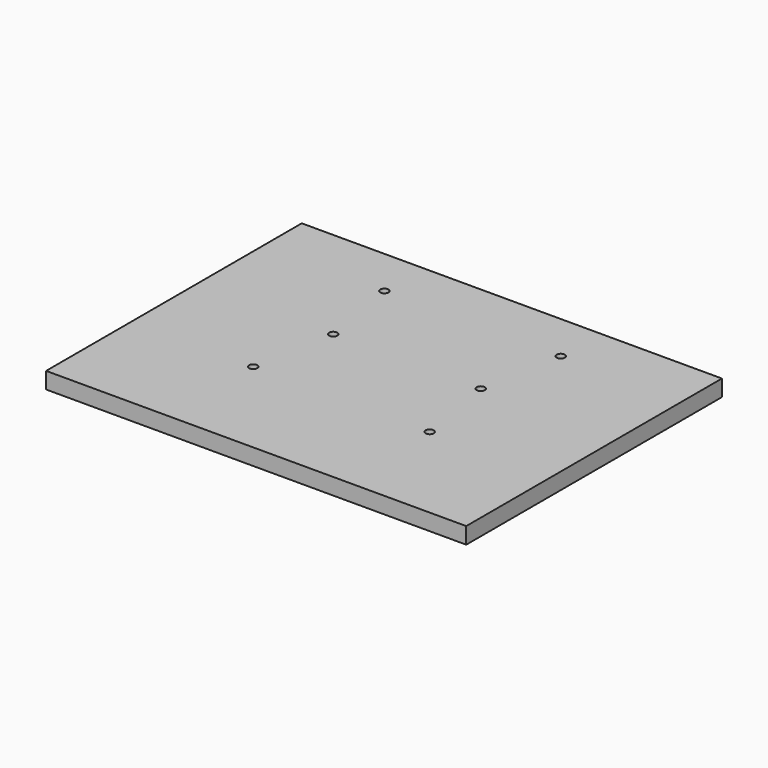
from build123d import *

# Parameters (mm, degrees)
F0_W     = 153.19502
F0_H     = 119.012598
F0_R     = 1.5875
F1_DEPTH = 3.175
F2_DEPTH = 3.175


with BuildPart() as f1:
    # F0 (on Top) → F1 (new body)
    with BuildSketch(Plane.XY):
        Polygon((76.59751, 50.750098), (76.59751, -68.2625), (-76.59751, -68.2625), (-76.59751, 50.750098), (-81.36001, 50.750098), (-81.36001, -73.025), (81.36001, -73.025), (81.36001, 50.750098), align=None)
        with Locations((0, -8.756201)):
            Rectangle(F0_W, F0_H)
        with Locations((-34.163, -31.75)):
            Circle(F0_R, mode=Mode.SUBTRACT)
        with Locations((34.163, -31.75)):
            Circle(F0_R, mode=Mode.SUBTRACT)
        with Locations((-28.575, 0)):
            Circle(F0_R, mode=Mode.SUBTRACT)
        with Locations((-34.163, 31.75)):
            Circle(F0_R, mode=Mode.SUBTRACT)
        with Locations((28.575, 0)):
            Circle(F0_R, mode=Mode.SUBTRACT)
        with Locations((34.163, 31.75)):
            Circle(F0_R, mode=Mode.SUBTRACT)
    extrude(amount=F1_DEPTH)

    # F0 (on Top) → F2 (join)
    with BuildSketch(Plane.XY):
        Polygon((76.59751, 50.750098), (76.59751, -68.2625), (-76.59751, -68.2625), (-76.59751, 50.750098), (-81.36001, 50.750098), (-81.36001, -73.025), (81.36001, -73.025), (81.36001, 50.750098), align=None)
    extrude(amount=-F2_DEPTH)


solid = f1.part
